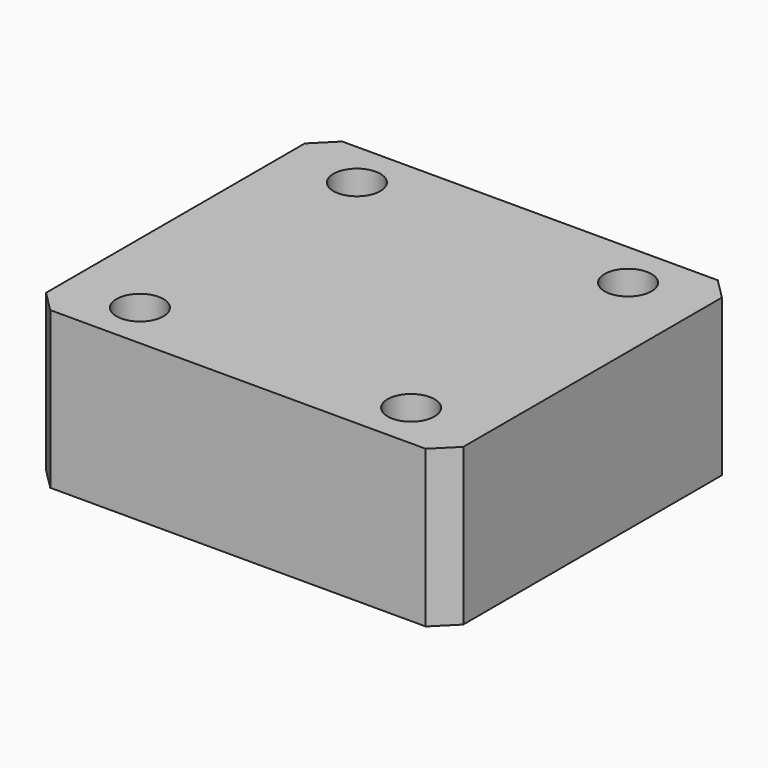
from build123d import *

# Parameters (mm, degrees)
SKETCH_W     = 40
SKETCH_H     = 35
PAD_DEPTH    = 15
SKETCH001_R  = 2.25
HOLE_DEPTH   = 25
CHAMFER_SIZE = 2


with BuildPart() as part:
    # Sketch → Pad (new body)
    with BuildSketch(Plane.XY):
        Rectangle(SKETCH_W, SKETCH_H)
    extrude(amount=-PAD_DEPTH)

    # Sketch001 → Hole (cut)
    with BuildSketch(Plane.XY):
        with Locations((-13, 13)):
            Circle(SKETCH001_R)
        with Locations((13, 13)):
            Circle(SKETCH001_R)
        with Locations((13, -13)):
            Circle(SKETCH001_R)
        with Locations((-13, -13)):
            Circle(SKETCH001_R)
    extrude(amount=-HOLE_DEPTH, mode=Mode.SUBTRACT)

    # Chamfer
    chamfer_edges = [part.edges().sort_by_distance(p)[0] for p in [
        (-20, -17.5, -7.5),
        (20, -17.5, -7.5),
        (-20, 17.5, -7.5),
        (20, 17.5, -7.5),
    ]]
    chamfer(chamfer_edges, length=CHAMFER_SIZE)


solid = part.part
